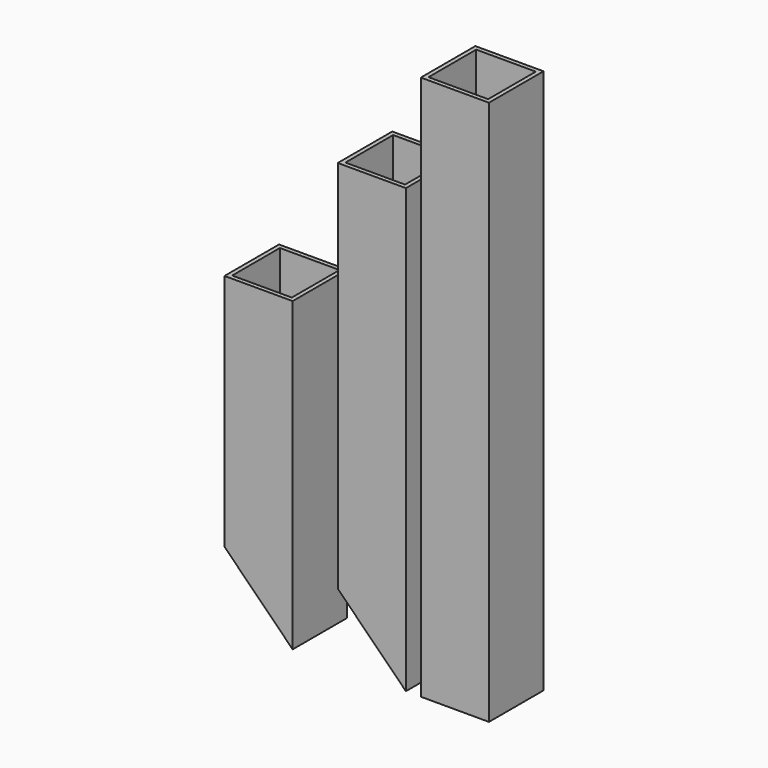
from build123d import *

# Parameters (mm, degrees)
F0_W      = 50.8
F0_H      = 50.8
F0_W_2    = 44.45
F0_H_2    = 44.45
F1_DEPTH  = 228.6
F2_DEPTH  = 330.2
F3_DEPTH  = 406.4
F5_DEPTH  = 50.8
F7_DEPTH  = 50.8
F8_W      = 38.1
F8_H      = 6.35
F9_DEPTH  = 203.2
F10_R     = 6.229209
F11_DEPTH = 25.4


with BuildPart() as f1:
    # F0 (on Top) → F1 (new body)
    with BuildSketch(Plane.XY):
        with Locations((-84.423612, 0)):
            Rectangle(F0_W, F0_H)
        with Locations((-84.423612, 0)):
            Rectangle(F0_W_2, F0_H_2, mode=Mode.SUBTRACT)
    extrude(amount=F1_DEPTH)

    # F4 (on face) → F5 (cut)
    with BuildSketch(Plane.XZ.offset(25.4)):
        Polygon((-109.823612, 0), (-59.023612, 0), (-109.823612, 50.8), align=None)
    extrude(amount=-F5_DEPTH, mode=Mode.SUBTRACT)


with BuildPart() as f2:
    # F0 (on Top) → F2 (new body)
    with BuildSketch(Plane.XY):
        Rectangle(F0_W, F0_H)
        Rectangle(F0_W_2, F0_H_2, mode=Mode.SUBTRACT)
    extrude(amount=F2_DEPTH)

    # F6 (on face) → F7 (cut)
    with BuildSketch(Plane.XZ.offset(25.4)):
        Polygon((-25.4, 0), (25.4, 0), (-25.4, 50.8), align=None)
    extrude(amount=-F7_DEPTH, mode=Mode.SUBTRACT)


with BuildPart() as f3:
    # F0 (on Top) → F3 (new body)
    with BuildSketch(Plane.XY):
        with Locations((61.939263, 0)):
            Rectangle(F0_W, F0_H)
        with Locations((61.939263, 0)):
            Rectangle(F0_W_2, F0_H_2, mode=Mode.SUBTRACT)
    extrude(amount=F3_DEPTH)


with BuildPart() as f9:
    # F8 (on Top) → F9 (new body)
    with BuildSketch(Plane.XY):
        with Locations((-42.684071, 55.413668)):
            Rectangle(F8_W, F8_H)
    extrude(amount=F9_DEPTH)

    # F10 (on face) → F11 (cut)
    with BuildSketch(Plane(origin=(0, 58.588668, 0), x_dir=(-1, 0, 0), z_dir=(0, 1, 0))):
        with Locations((42.684071, 190.5)):
            Circle(F10_R)
    extrude(amount=-F11_DEPTH, mode=Mode.SUBTRACT)


solid = Compound([f1.part, f2.part, f3.part, f9.part])
